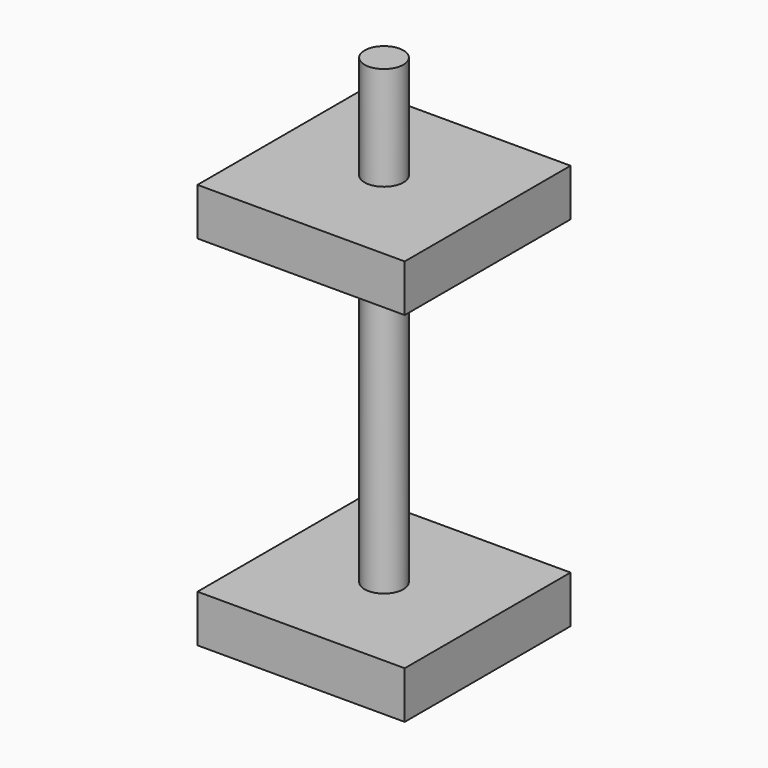
from build123d import *

# Parameters (mm, degrees)
F0_W     = 50.8
F0_H     = 50.8
F1_DEPTH = 11.5824
F2_R     = 4.7625
F3_DEPTH = 76.2
F4_W     = 50.8
F4_H     = 50.8
F4_R     = 4.7625
F5_DEPTH = 11.5824
F6_R     = 4.7625
F7_DEPTH = 25.4


with BuildPart() as f1:
    # F0 (on Top) → F1 (new body)
    with BuildSketch(Plane.XY):
        Rectangle(F0_W, F0_H)
    extrude(amount=F1_DEPTH)

    # F2 (on face) → F3 (join)
    with BuildSketch(Plane.XY.offset(11.5824)):
        Circle(F2_R)
    extrude(amount=F3_DEPTH)

    # F4 (on face) → F5 (join)
    with BuildSketch(Plane.XY.offset(87.7824)):
        Rectangle(F4_W, F4_H)
        Circle(F4_R, mode=Mode.SUBTRACT)
        Circle(F4_R)
    extrude(amount=F5_DEPTH)

    # F6 (on face) → F7 (join)
    with BuildSketch(Plane.XY.offset(99.3648)):
        Circle(F6_R)
    extrude(amount=F7_DEPTH)


solid = f1.part
